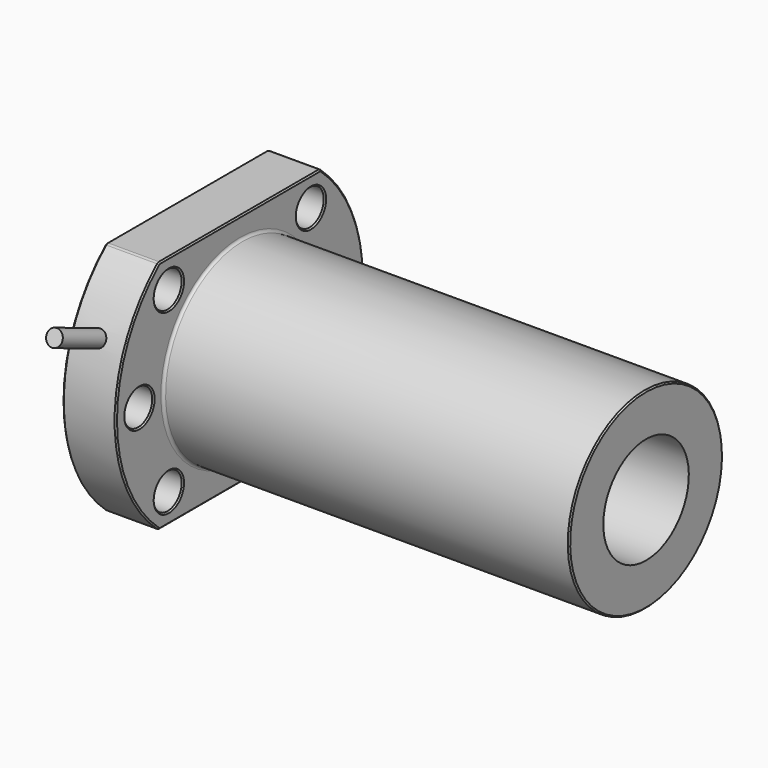
from build123d import *

# Parameters (mm, degrees)
SKETCH_W        = 86
SKETCH_H        = 18
SKETCH001_R     = 29
PAD_DEPTH       = 10
SKETCH002_W     = 20
SKETCH002_H     = 49.824667
POCKET_DEPTH    = 86.001
SKETCH003_R     = 3.3
POCKET001_DEPTH = 86.001
SKETCH005_R     = 1.5
PAD001_DEPTH    = 29
FILLET_R        = 0.5
CHAMFER_SIZE    = 0.25
CHAMFER001_SIZE = 0.25
CHAMFER002_SIZE = 0.25
SKETCH007_R     = 10
POCKET002_DEPTH = 86.001


with BuildPart() as part:
    # Sketch → Revolution (revolve)
    with BuildSketch(Plane.XZ):
        with Locations((43, 9)):
            Rectangle(SKETCH_W, SKETCH_H)
    revolve(axis=Axis((0, 0, 0), (1, 0, 0)))

    # Sketch001 (on Face3 of Revolution) → Pad (new body)
    with BuildSketch(Plane(origin=(0, 0, 0), x_dir=(0, 0, -1), z_dir=(-1, 0, 0))):
        Circle(SKETCH001_R)
    extrude(amount=-PAD_DEPTH)

    # Sketch002 (on Face5 of Pad) → Pocket (cut, through all)
    with BuildSketch(Plane(origin=(0, 0, 0), x_dir=(0, 0, -1), z_dir=(-1, 0, 0))):
        with Locations((-32, 24.912333)):
            Rectangle(SKETCH002_W, SKETCH002_H)
        with Locations((-32, -24.912333)):
            Rectangle(SKETCH002_W, SKETCH002_H)
        with Locations((32, 24.912333)):
            Rectangle(SKETCH002_W, SKETCH002_H)
        with Locations((32, -24.912333)):
            Rectangle(SKETCH002_W, SKETCH002_H)
    extrude(amount=-POCKET_DEPTH, mode=Mode.SUBTRACT)

    # Sketch003 (on Face6 of Pocket) → Pocket001 (cut, through all)
    with BuildSketch(Plane(origin=(0, 0, 0), x_dir=(0, 0, -1), z_dir=(-1, 0, 0))):
        with Locations((-16.617001, -16.617018)):
            Circle(SKETCH003_R)
        with Locations((0, -23.5)):
            Circle(SKETCH003_R)
        with Locations((16.617012, -16.617007)):
            Circle(SKETCH003_R)
        with Locations((-16.617001, 16.617018)):
            Circle(SKETCH003_R)
        with Locations((0, 23.5)):
            Circle(SKETCH003_R)
        with Locations((16.617012, 16.617007)):
            Circle(SKETCH003_R)
    extrude(amount=-POCKET001_DEPTH, mode=Mode.SUBTRACT)

    # Sketch005 (on DatumPlane) → Pad001 (join)
    with BuildSketch(Plane(origin=(5, -36.955188, 15.307322), x_dir=(-1, 0, 0), z_dir=(0, 0.92388, -0.382683))):
        with Locations((0.138398, 0)):
            Circle(SKETCH005_R)
    extrude(amount=PAD001_DEPTH)

    # Fillet
    fillet_edges = [part.edges().sort_by_distance(p)[0] for p in [
        (10, 0, -18),
    ]]
    fillet(fillet_edges, radius=FILLET_R)

    # Chamfer
    chamfer_edges = [part.edges().sort_by_distance(p)[0] for p in [
        (0, 0, 22),
        (5, -18.894444, 22),
        (10, 0, 22),
        (5, 18.894444, 22),
        (0, -29, 0),
        (10, -29, 0),
        (0, 0, -22),
        (5, 18.894444, -22),
        (10, 0, -22),
        (5, -18.894444, -22),
        (0, 29, 0),
        (10, 29, 0),
    ]]
    chamfer(chamfer_edges, length=CHAMFER_SIZE)

    # Chamfer001
    chamfer001_edges = [part.edges().sort_by_distance(p)[0] for p in [
        (86, 0, -18),
    ]]
    chamfer(chamfer001_edges, length=CHAMFER001_SIZE)

    # Chamfer002
    chamfer002_edges = [part.edges().sort_by_distance(p)[0] for p in [
        (0, -16.617018, 19.917001),
        (5, -16.617018, 13.317001),
        (10, -16.617018, 19.917001),
        (0, 16.617018, 19.917001),
        (5, 16.617018, 13.317001),
        (10, 16.617018, 19.917001),
        (0, 23.5, 3.3),
        (5, 23.5, -3.3),
        (10, 23.5, 3.3),
        (0, 16.617007, -13.317012),
        (5, 16.617007, -19.917012),
        (10, 16.617007, -13.317012),
        (0, -23.5, 3.3),
        (5, -23.5, -3.3),
        (10, -23.5, 3.3),
        (0, -16.617007, -13.317012),
        (5, -16.617007, -19.917012),
        (10, -16.617007, -13.317012),
    ]]
    chamfer(chamfer002_edges, length=CHAMFER002_SIZE)

    # Sketch007 (on Face48 of Chamfer002) → Pocket002 (cut, through all)
    with BuildSketch(Plane(origin=(0, 0, 0), x_dir=(0, 0, -1), z_dir=(-1, 0, 0))):
        Circle(SKETCH007_R)
    extrude(amount=-POCKET002_DEPTH, mode=Mode.SUBTRACT)


solid = part.part
